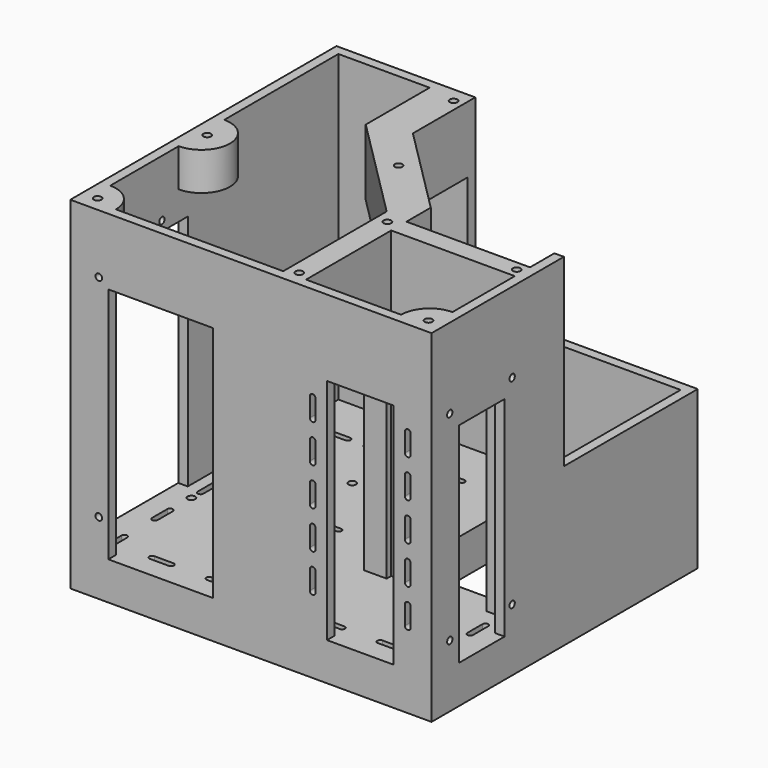
from build123d import *

# Parameters (mm, degrees)
SKETCH003_W             = 190
SKETCH003_H             = 175
SKETCH003_W_2           = 65
SKETCH003_H_2           = 99
PAD001_DEPTH            = 180
SKETCH005_W             = 55
SKETCH005_H             = 125
POCKET003_DEPTH         = 10
SKETCH006_W             = 83
SKETCH006_H             = 75
POCKET004_DEPTH         = 80
SKETCH052_W             = 65
SKETCH052_H             = 56
POCKET005_DEPTH         = 160
SKETCH053_W             = 103
SKETCH053_H             = 165
POCKET006_DEPTH         = 160
SKETCH054_W             = 117
SKETCH054_H             = 97
POCKET007_DEPTH         = 88
SKETCH055_W             = 35
SKETCH055_H             = 120
POCKET008_DEPTH         = 80
PAD002_DEPTH            = 35
SKETCH058_W             = 53
SKETCH058_H             = 125
POCKET009_DEPTH         = 20
SKETCH059_W             = 148
SKETCH059_H             = 50
SKETCH059_H_2           = 48
POCKET010_DEPTH         = 15.5
POCKET011_DEPTH         = 80
LINEARPATTERN_COUNT     = 5
LINEARPATTERN_PITCH     = 20
SKETCH062_R             = 2
POCKET012_DEPTH         = 20.001
SKETCH063_R             = 2
POCKET013_DEPTH         = 10
SKETCH064_R             = 2
PAD003_DEPTH            = 20
SKETCH071_W             = 66
SKETCH071_H             = 125
POCKET019_DEPTH         = 5
SKETCH072_W             = 30
SKETCH072_H             = 110
POCKET020_DEPTH         = 5
CHAMFER001_SIZE         = 20
SKETCH173_R             = 1.75
POCKET060_DEPTH         = 5
SKETCH174_R             = 1.75
POCKET061_DEPTH         = 5
SKETCH175_R             = 1.75
POCKET062_DEPTH         = 5
BODY001_PLACEMENT_ANGLE = 180.000005


with BuildPart() as part:
    # Sketch003 → Pad001 (new body)
    with BuildSketch(Plane.XY):
        with Locations((58, 50.5)):
            Rectangle(SKETCH003_W, SKETCH003_H)
        with Locations((0.5, 17.5)):
            Rectangle(SKETCH003_W_2, SKETCH003_H_2, mode=Mode.SUBTRACT)
    extrude(amount=PAD001_DEPTH)

    # Sketch005 (on Face3 of Pad001) → Pocket003 (cut)
    with BuildSketch(Plane(origin=(0, 138, 0), x_dir=(-1, 0, 0), z_dir=(0, 1, 0))):
        with Locations((-105.5, 82.5)):
            Rectangle(SKETCH005_W, SKETCH005_H)
    extrude(amount=-POCKET003_DEPTH, mode=Mode.SUBTRACT)

    # Sketch006 (on Face9 of Pocket003) → Pocket004 (cut)
    with BuildSketch(Plane(origin=(33, 0, 0), x_dir=(0, -1, 0), z_dir=(-1, 0, 0))):
        with Locations((-9.5, 57.5)):
            Rectangle(SKETCH006_W, SKETCH006_H)
    extrude(amount=-POCKET004_DEPTH, mode=Mode.SUBTRACT)

    # Sketch052 (on Face5 of Pocket004) → Pocket005 (cut)
    with BuildSketch(Plane.XY.offset(180)):
        with Locations((0.5, 105)):
            Rectangle(SKETCH052_W, SKETCH052_H)
    extrude(amount=-POCKET005_DEPTH, mode=Mode.SUBTRACT)

    # Sketch053 (on Face5 of Pocket005) → Pocket006 (cut)
    with BuildSketch(Plane.XY.offset(180)):
        with Locations((96.5, 50.5)):
            Rectangle(SKETCH053_W, SKETCH053_H)
    extrude(amount=-POCKET006_DEPTH, mode=Mode.SUBTRACT)

    # Sketch054 (on Face1 of Pocket006) → Pocket007 (cut)
    with BuildSketch(Plane.XZ.offset(37)):
        with Locations((21.5, 131.5)):
            Rectangle(SKETCH054_W, SKETCH054_H)
    extrude(amount=-POCKET007_DEPTH, mode=Mode.SUBTRACT)

    # Sketch055 (on Face8 of Pocket007) → Pocket008 (cut)
    with BuildSketch(Plane(origin=(0, 138, 0), x_dir=(-1, 0, 0), z_dir=(0, 1, 0))):
        with Locations((-0.5, 80)):
            Rectangle(SKETCH055_W, SKETCH055_H)
    extrude(amount=-POCKET008_DEPTH, mode=Mode.SUBTRACT)

    # Sketch056 (on Face4 of Pocket008) → Pad002 (join)
    with BuildSketch(Plane.XY.offset(180)):
        Polygon((80, 4), (80, -37), (100, -37), (100, 10.000022), (33, 77), (33, 51), align=None)
    extrude(amount=-PAD002_DEPTH)

    # Sketch058 (on Face18 of Pad002) → Pocket009 (cut)
    with BuildSketch(Plane(origin=(33, 0, 0), x_dir=(0, -1, 0), z_dir=(-1, 0, 0))):
        with Locations((-106.5, 82.5)):
            Rectangle(SKETCH058_W, SKETCH058_H)
    extrude(amount=-POCKET009_DEPTH, mode=Mode.SUBTRACT)

    # Sketch059 (on Face1 of Pocket009) → Pocket010 (cut)
    with BuildSketch(Plane(origin=(0, 0, 0), x_dir=(1, 0, 0), z_dir=(0, 0, -1))):
        Polygon((-32, 117), (-32, -133), (148, -133), (148, 117), (132, 117), (132, 16), (-16, 16), (-16, 117), align=None)
        with Locations((58, -92)):
            Rectangle(SKETCH059_W, SKETCH059_H, mode=Mode.SUBTRACT)
        with Locations((58, -26)):
            Rectangle(SKETCH059_W, SKETCH059_H_2, mode=Mode.SUBTRACT)
    extrude(amount=-POCKET010_DEPTH, mode=Mode.SUBTRACT)

    # Sketch060 (on Face3 of Pocket010) → Pocket011 (cut)
    with BuildSketch(Plane(origin=(0, 138, 0), x_dir=(-1, 0, 0), z_dir=(0, 1, 0))):
        with BuildLine():
            ThreePointArc((-24, 130), (-25.5, 131.5), (-27, 130))
            Line((-27, 130), (-27, 120))
            ThreePointArc((-27, 120), (-25.5, 118.5), (-24, 120))
            Line((-24, 130), (-24, 120))
        make_face()
        with BuildLine():
            ThreePointArc((26, 130), (24.5, 131.5), (23, 130))
            Line((23, 130), (23, 120))
            ThreePointArc((23, 120), (24.5, 118.5), (26, 120))
            Line((26, 130), (26, 120))
        make_face()
    pocket011 = extrude(amount=-POCKET011_DEPTH, mode=Mode.SUBTRACT)

    # LinearPattern: Pocket011 ×5
    with Locations(*[(0, 0, -i * LINEARPATTERN_PITCH) for i in range(1, LINEARPATTERN_COUNT)]):
        add(pocket011, mode=Mode.SUBTRACT)

    # Sketch062 (on Face39 of LinearPattern) → Pocket012 (cut, through all)
    with BuildSketch(Plane.XY.offset(20)):
        with Locations((92.2, 73.895001)):
            Circle(SKETCH062_R)
        with Locations((125.1, 22.5)):
            Circle(SKETCH062_R)
        with Locations((140.5, 74)):
            Circle(SKETCH062_R)
        with Locations((97.1, 22.5)):
            Circle(SKETCH062_R)
        with Locations((92.029861, -8.898874)):
            Circle(SKETCH062_R)
        with BuildLine():
            ThreePointArc((-26, 87), (-24.5, 85.5), (-23, 87))
            Line((-23, 87), (-23, 97))
            ThreePointArc((-23, 97), (-24.5, 98.5), (-26, 97))
            Line((-26, 87), (-26, 97))
        make_face()
        with BuildLine():
            ThreePointArc((-26, 117), (-24.5, 115.5), (-23, 117))
            Line((-23, 117), (-23, 127))
            ThreePointArc((-23, 127), (-24.5, 128.5), (-26, 127))
            Line((-26, 117), (-26, 127))
        make_face()
        with BuildLine():
            ThreePointArc((-10, 127), (-11.5, 125.5), (-10, 124))
            Line((-10, 124), (0, 124))
            ThreePointArc((0, 124), (1.5, 125.5), (0, 127))
            Line((-10, 127), (0, 127))
        make_face()
        with BuildLine():
            ThreePointArc((20, 127), (18.5, 125.5), (20, 124))
            Line((20, 124), (30, 124))
            ThreePointArc((30, 124), (31.5, 125.5), (30, 127))
            Line((20, 127), (30, 127))
        make_face()
        with BuildLine():
            ThreePointArc((50, 127), (48.5, 125.5), (50, 124))
            Line((50, 124), (60, 124))
            ThreePointArc((60, 124), (61.5, 125.5), (60, 127))
            Line((50, 127), (60, 127))
        make_face()
        with BuildLine():
            ThreePointArc((80, 127), (78.5, 125.5), (80, 124))
            Line((80, 124), (90, 124))
            ThreePointArc((90, 124), (91.5, 125.5), (90, 127))
            Line((80, 127), (90, 127))
        make_face()
        with BuildLine():
            ThreePointArc((110, 127), (108.5, 125.5), (110, 124))
            Line((110, 124), (120, 124))
            ThreePointArc((120, 124), (121.5, 125.5), (120, 127))
            Line((110, 127), (120, 127))
        make_face()
        with BuildLine():
            ThreePointArc((142, 128), (140.5, 129.5), (139, 128))
            Line((139, 128), (139, 118))
            ThreePointArc((139, 118), (140.5, 116.5), (142, 118))
            Line((142, 128), (142, 118))
        make_face()
        with BuildLine():
            ThreePointArc((142, 98), (140.5, 99.5), (139, 98))
            Line((139, 98), (139, 88))
            ThreePointArc((139, 88), (140.5, 86.5), (142, 88))
            Line((142, 98), (142, 88))
        make_face()
        with BuildLine():
            ThreePointArc((142, 68), (140.5, 69.5), (139, 68))
            Line((139, 68), (139, 58))
            ThreePointArc((139, 58), (140.5, 56.5), (142, 58))
            Line((142, 68), (142, 58))
        make_face()
        with BuildLine():
            ThreePointArc((142, 38), (140.5, 39.5), (139, 38))
            Line((139, 38), (139, 28))
            ThreePointArc((139, 28), (140.5, 26.5), (142, 28))
            Line((142, 38), (142, 28))
        make_face()
        with BuildLine():
            ThreePointArc((142, 8), (140.5, 9.5), (139, 8))
            Line((139, 8), (139, -2))
            ThreePointArc((139, -2), (140.5, -3.5), (142, -2))
            Line((142, 8), (142, -2))
        make_face()
        with BuildLine():
            ThreePointArc((38, -5.5), (36.5, -7), (38, -8.5))
            Line((38, -8.5), (48, -8.5))
            ThreePointArc((48, -8.5), (49.5, -7), (48, -5.5))
            Line((38, -5.5), (48, -5.5))
        make_face()
        with BuildLine():
            ThreePointArc((63, -5.5), (61.5, -7), (63, -8.5))
            Line((63, -8.5), (73, -8.5))
            ThreePointArc((73, -8.5), (74.5, -7), (73, -5.5))
            Line((63, -5.5), (73, -5.5))
        make_face()
        with BuildLine():
            ThreePointArc((103, -5.5), (101.5, -7), (103, -8.5))
            Line((103, -8.5), (113, -8.5))
            ThreePointArc((113, -8.5), (114.5, -7), (113, -5.5))
            Line((103, -5.5), (113, -5.5))
        make_face()
        with BuildLine():
            ThreePointArc((123, -5.5), (121.5, -7), (123, -8.5))
            Line((123, -8.5), (133, -8.5))
            ThreePointArc((133, -8.5), (134.5, -7), (133, -5.5))
            Line((123, -5.5), (133, -5.5))
        make_face()
        with BuildLine():
            ThreePointArc((45.427116, 60), (43.927116, 58.5), (45.427116, 57))
            Line((45.427116, 57), (55.427116, 57))
            ThreePointArc((55.427116, 57), (56.927116, 58.5), (55.427116, 60))
            Line((45.427116, 60), (55.427116, 60))
        make_face()
        with BuildLine():
            ThreePointArc((75.427116, 60), (73.927116, 58.5), (75.427116, 57))
            Line((75.427116, 57), (85.427116, 57))
            ThreePointArc((85.427116, 57), (86.927116, 58.5), (85.427116, 60))
            Line((75.427116, 60), (85.427116, 60))
        make_face()
        with BuildLine():
            ThreePointArc((105.427116, 60), (103.927116, 58.5), (105.427116, 57))
            Line((105.427116, 57), (115.427116, 57))
            ThreePointArc((115.427116, 57), (116.927116, 58.5), (115.427116, 60))
            Line((105.427116, 60), (115.427116, 60))
        make_face()
    extrude(amount=-POCKET012_DEPTH, mode=Mode.SUBTRACT)

    # Sketch063 (on Face11 of Pocket012) → Pocket013 (cut)
    with BuildSketch(Plane.XY.offset(180)):
        with Locations((39, 72)):
            Circle(SKETCH063_R)
        with Locations((39, 130)):
            Circle(SKETCH063_R)
        with Locations((66.727922, 30)):
            Circle(SKETCH063_R)
        with Locations((145, -29)):
            Circle(SKETCH063_R)
        with Locations((85, -29)):
            Circle(SKETCH063_R)
        with Locations((-29, 72)):
            Circle(SKETCH063_R)
    extrude(amount=-POCKET013_DEPTH, mode=Mode.SUBTRACT)

    # Sketch064 (on Face11 of Pocket013) → Pad003 (join)
    with BuildSketch(Plane.XY.offset(180)):
        with BuildLine():
            ThreePointArc((-32, 118), (-21.393398, 122.393398), (-17, 133))
            Line((-17, 133), (-32, 133))
            Line((-32, 118), (-32, 133))
        make_face()
        with Locations((-29, 130)):
            Circle(SKETCH064_R, mode=Mode.SUBTRACT)
        with BuildLine():
            ThreePointArc((133, 133), (137.393398, 122.393398), (148, 118))
            Line((148, 118), (148, 133))
            Line((148, 133), (133, 133))
        make_face()
        with Locations((145, 130)):
            Circle(SKETCH064_R, mode=Mode.SUBTRACT)
        with BuildLine():
            ThreePointArc((148, 73), (133, 58), (148, 43))
            Line((148, 43), (148, 73))
        make_face()
        with Locations((145, 57.976358)):
            Circle(SKETCH064_R, mode=Mode.SUBTRACT)
    extrude(amount=-PAD003_DEPTH)

    # Sketch071 (on Face4 of Pad003) → Pocket019 (cut)
    with BuildSketch(Plane.YZ.offset(153)):
        with Locations((100, 82.5)):
            Rectangle(SKETCH071_W, SKETCH071_H)
    extrude(amount=-POCKET019_DEPTH, mode=Mode.SUBTRACT)

    # Sketch072 (on Face2 of Pocket019) → Pocket020 (cut)
    with BuildSketch(Plane(origin=(-37, 0, 0), x_dir=(0, -1, 0), z_dir=(-1, 0, 0))):
        with Locations((-105, 75)):
            Rectangle(SKETCH072_W, SKETCH072_H)
    extrude(amount=-POCKET020_DEPTH, mode=Mode.SUBTRACT)

    # Chamfer001
    chamfer001_edges = [part.edges().sort_by_distance(p)[0] for p in [
        (132, -16, 7.75),
        (132, 2, 7.75),
        (132, 50, 7.75),
        (132, 67, 7.75),
        (132, 117, 7.75),
        (-16, 67, 7.75),
        (-16, 117, 7.75),
    ]]
    chamfer(chamfer001_edges, length=CHAMFER001_SIZE)

    # Sketch173 (on Face173 of Chamfer001) → Pocket060 (cut)
    with BuildSketch(Plane.YZ.offset(-32)):
        with Locations((85, 137.84)):
            Circle(SKETCH173_R)
        with Locations((126, 137.84)):
            Circle(SKETCH173_R)
        with Locations((85, 32.84)):
            Circle(SKETCH173_R)
        with Locations((126, 32.84)):
            Circle(SKETCH173_R)
    extrude(amount=-POCKET060_DEPTH, mode=Mode.SUBTRACT)

    # Sketch174 (on Face167 of Pocket060) → Pocket061 (cut)
    with BuildSketch(Plane.XZ.offset(-133)):
        with Locations((138, 149)):
            Circle(SKETCH174_R)
        with Locations((138, 38)):
            Circle(SKETCH174_R)
    extrude(amount=-POCKET061_DEPTH, mode=Mode.SUBTRACT)

    # Sketch175 (on Face169 of Pocket061) → Pocket062 (cut)
    with BuildSketch(Plane(origin=(148, 0, 0), x_dir=(0, -1, 0), z_dir=(-1, 0, 0))):
        with Locations((-84, 150)):
            Circle(SKETCH175_R)
        with Locations((-121, 150)):
            Circle(SKETCH175_R)
    extrude(amount=-POCKET062_DEPTH, mode=Mode.SUBTRACT)


with BuildPart() as part_1:
    # Body001 placement: moved
    add(part.part.moved(Location((-54.900013, -44.900013, -82.900002))).rotate(Axis((-54.900013, -44.900013, -82.900002), (0, 0, 1)), BODY001_PLACEMENT_ANGLE))


solid = part_1.part
